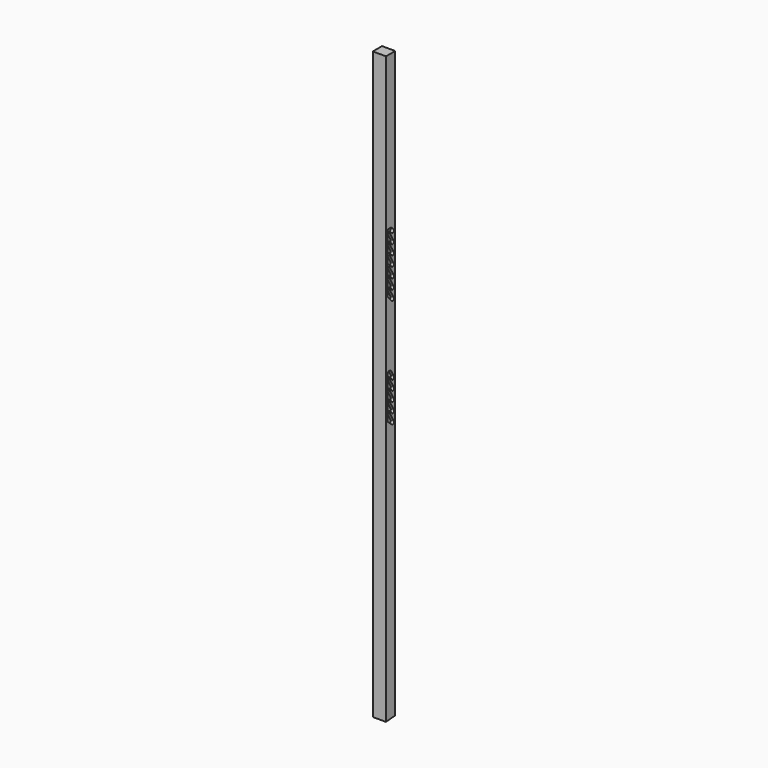
from build123d import *

# Parameters (mm, degrees)
F0_W     = 50.8
F0_H     = 44.45
F1_DEPTH = 2254.25
F3_DEPTH = 101.6
F8_DEPTH = 12.7


with BuildPart() as f1:
    # F0 (on Top) → F1 (new body)
    with BuildSketch(Plane.XY):
        with Locations((25.4, 22.225)):
            Rectangle(F0_W, F0_H)
    extrude(amount=F1_DEPTH)

    # F2 (on face) → F3 (cut)
    with BuildSketch(Plane.YZ.offset(50.8)):
        Polygon((44.45, 3.888871), (0, 0), (44.45, 0), align=None)
    extrude(amount=-F3_DEPTH, mode=Mode.SUBTRACT)

    # F7 (on face) → F8 (cut)
    with BuildSketch(Plane.YZ.offset(50.8)):
        with BuildLine():
            Line((6.35, 1150.822904), (6.35, 1014.78219))
            Line((6.35, 1014.78219), (28.766256, 995.296036))
            ThreePointArc((28.766256, 995.296036), (36.875365, 995.319042), (37.935552, 1003.358581))
            Line((37.935552, 1003.358581), (19.05, 1036.522904))
            Line((19.05, 1036.522904), (19.05, 1039.743495))
            ThreePointArc((19.05, 1039.743495), (20.9326, 1042.196947), (23.789705, 1041.013495))
            Line((23.789705, 1041.013495), (27.101477, 1035.277336))
            ThreePointArc((27.101477, 1035.277336), (35.775739, 1032.953075), (38.1, 1041.627336))
            Line((38.1, 1041.627336), (19.05, 1074.622904))
            Line((19.05, 1074.622904), (19.05, 1077.843495))
            ThreePointArc((19.05, 1077.843495), (20.9326, 1080.296947), (23.789705, 1079.113495))
            Line((23.789705, 1079.113495), (27.101477, 1073.377336))
            ThreePointArc((27.101477, 1073.377336), (35.775739, 1071.053075), (38.1, 1079.727336))
            Line((38.1, 1079.727336), (19.05, 1112.722904))
            Line((19.05, 1112.722904), (19.05, 1115.943495))
            ThreePointArc((19.05, 1115.943495), (20.9326, 1118.396947), (23.789705, 1117.213495))
            Line((23.789705, 1117.213495), (27.101477, 1111.477336))
            ThreePointArc((27.101477, 1111.477336), (35.775739, 1109.153075), (38.1, 1117.827336))
            Line((38.1, 1117.827336), (19.05, 1150.822904))
            Line((19.05, 1150.822904), (19.05, 1154.043495))
            ThreePointArc((19.05, 1154.043495), (20.9326, 1156.496947), (23.789705, 1155.313495))
            Line((23.789705, 1155.313495), (27.101477, 1149.577336))
            ThreePointArc((27.101477, 1149.577336), (35.739022, 1146.137909), (38.494059, 1155.01747))
            Line((38.494059, 1155.01747), (25.728455, 1177.128144))
            ThreePointArc((25.728455, 1177.128144), (16.039228, 1182.722223), (6.35, 1177.128144))
            Line((6.35, 1177.128144), (6.35, 1150.822904))
        make_face()
        with BuildLine():
            ThreePointArc((26.250739, 1492.17557), (34.925, 1489.851309), (37.249261, 1498.52557))
            Line((37.249261, 1498.52557), (18.050561, 1531.778695))
            Line((18.050561, 1531.778695), (18.050561, 1534.953695))
            ThreePointArc((18.050561, 1534.953695), (20.071193, 1537.554318), (22.960683, 1535.974114))
            Line((22.960683, 1535.974114), (25.456989, 1531.650385))
            ThreePointArc((25.456989, 1531.650385), (34.712315, 1529.170428), (37.192273, 1538.425755))
            Line((37.192273, 1538.425755), (18.189293, 1571.339881))
            Line((18.189293, 1571.339881), (18.20906, 1574.51482))
            ThreePointArc((18.20906, 1574.51482), (20.086101, 1576.978242), (22.948739, 1575.796279))
            Line((22.948739, 1575.796279), (26.250739, 1570.077047))
            ThreePointArc((26.250739, 1570.077047), (34.925, 1567.752786), (37.249261, 1576.427047))
            Line((37.249261, 1576.427047), (17.105197, 1611.31759))
            Line((17.105197, 1611.31759), (17.105197, 1614.49259))
            ThreePointArc((17.105197, 1614.49259), (18.988881, 1616.993811), (21.869285, 1615.765948))
            Line((21.869285, 1615.765948), (26.250739, 1608.177047))
            ThreePointArc((26.250739, 1608.177047), (34.925, 1605.852786), (37.249261, 1614.527047))
            Line((37.249261, 1614.527047), (19.05, 1646.049093))
            ThreePointArc((19.05, 1646.049093), (19.894771, 1649.311639), (23.235009, 1648.863688))
            Line((23.235009, 1648.863688), (27.329522, 1644.893334))
            ThreePointArc((27.329522, 1644.893334), (36.34728, 1645.071692), (36.089896, 1654.087541))
            Line((36.089896, 1654.087541), (23.91872, 1665.482583))
            Line((23.91872, 1665.482583), (12.146561, 1664.452653))
            ThreePointArc((12.146561, 1664.452653), (8.018289, 1662.416814), (6.35, 1658.126817))
            Line((6.35, 1658.126817), (6.35, 1437.866909))
            Line((6.35, 1437.866909), (27.031333, 1414.901254))
            ThreePointArc((27.031333, 1414.901254), (35.482619, 1414.013445), (37.249261, 1422.32557))
            Line((37.249261, 1422.32557), (18.313239, 1455.123723))
            Line((18.313239, 1455.123723), (18.313239, 1458.298723))
            ThreePointArc((18.313239, 1458.298723), (20.17307, 1460.792401), (23.052521, 1459.615046))
            Line((23.052521, 1459.615046), (26.250739, 1454.07557))
            ThreePointArc((26.250739, 1454.07557), (34.925, 1451.751309), (37.249261, 1460.42557))
            Line((37.249261, 1460.42557), (16.637531, 1496.126135))
            Line((16.637531, 1496.126135), (16.637531, 1499.301135))
            ThreePointArc((16.637531, 1499.301135), (18.700471, 1502.302601), (21.642993, 1500.15642))
            Line((21.642993, 1500.15642), (26.250739, 1492.17557))
        make_face()
    extrude(amount=-F8_DEPTH, mode=Mode.SUBTRACT)


solid = f1.part
